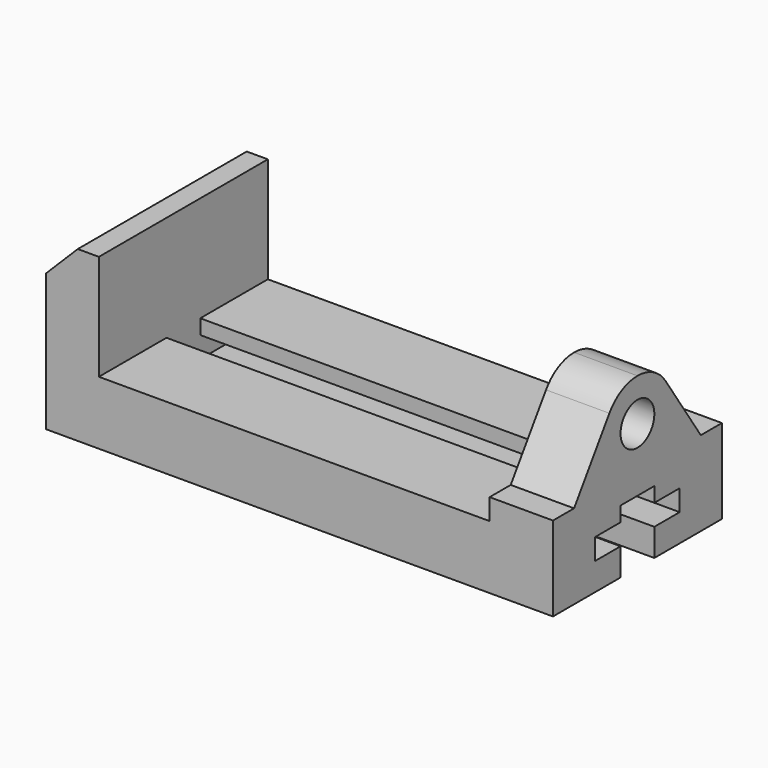
from build123d import *

# Parameters (mm, degrees)
F1_DEPTH = 63.5
F3_DEPTH = 273.05
F4_R     = 12.7
F5_DEPTH = 38.1


with BuildPart() as f1:
    # F0 (on Front) → F1 (new body, symmetric)
    with BuildSketch(Plane.XZ):
        Polygon((0, 82.55), (0, 0), (304.8, 0), (304.8, 101.6), (266.7, 101.6), (266.7, 38.1), (31.75, 38.1), (31.75, 101.6), (19.05, 101.6), align=None)
    extrude(amount=F1_DEPTH, both=True)

    # F2 (on face) → F3 (cut)
    with BuildSketch(Plane.YZ.offset(304.8)):
        Polygon((-12.7, 16.51), (-12.7, 0), (12.7, 0), (12.7, 16.51), (31.75, 16.51), (31.75, 29.21), (12.7, 29.21), (12.7, 38.1), (-12.7, 38.1), (-12.7, 29.21), (-31.75, 29.21), (-31.75, 16.51), align=None)
    extrude(amount=-F3_DEPTH, mode=Mode.SUBTRACT)

    # F4 (on face) → F5 (cut)
    with BuildSketch(Plane.YZ.offset(304.8)):
        with BuildLine():
            Line((-63.5, 101.6), (-63.5, 50.8))
            Line((-63.5, 50.8), (-47.625, 50.8))
            Line((-47.625, 50.8), (-21.093426, 90.350173))
            ThreePointArc((-21.093426, 90.350173), (-11.952941, 98.611765), (0, 101.6))
            Line((0, 101.6), (-63.5, 101.6))
        make_face()
        with Locations((0, 76.2)):
            Circle(F4_R)
        with BuildLine():
            Line((63.5, 101.6), (0, 101.6))
            ThreePointArc((0, 101.6), (11.952941, 98.611765), (21.093426, 90.350173))
            Line((21.093426, 90.350173), (47.625, 50.8))
            Line((47.625, 50.8), (63.5, 50.8))
            Line((63.5, 50.8), (63.5, 101.6))
        make_face()
    extrude(amount=-F5_DEPTH, mode=Mode.SUBTRACT)


solid = f1.part
